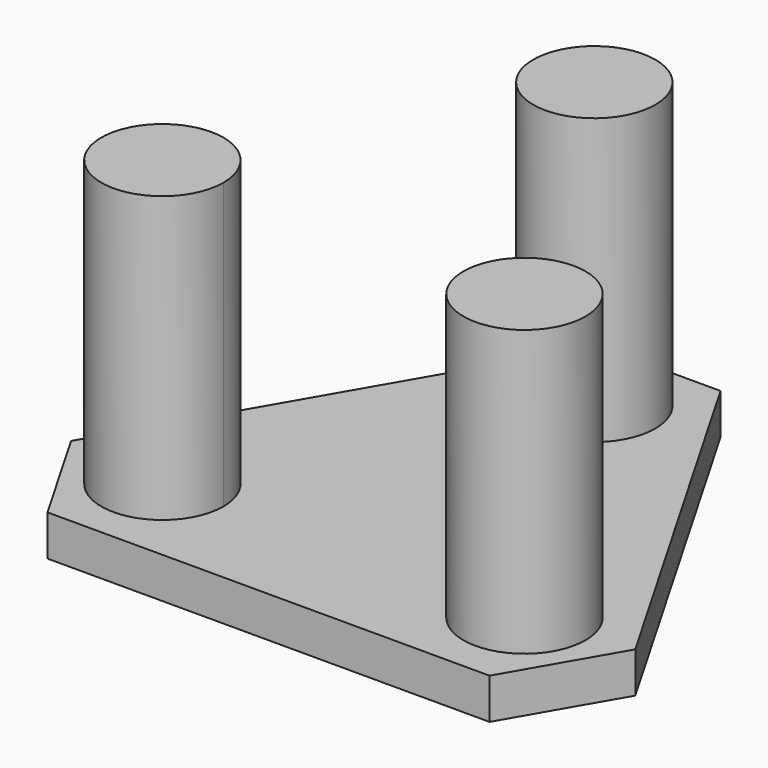
from build123d import *

# Parameters (mm, degrees)
F0_R     = 4.7625
F1_DEPTH = 3.175
F2_DEPTH = 25.4


with BuildPart() as f1:
    # F0 (on Top) → F1 (new body)
    with BuildSketch(Plane.XY):
        with BuildLine():
            ThreePointArc((12.643011, -0.949446), (6.647886, 3.650776), (3.756065, -3.330696))
            ThreePointArc((3.756065, -3.330696), (9.113137, -5.549668), (12.643011, -0.949446))
        make_face()
        Polygon((17.234545, 29.851108), (0, 0), (2.38125, -4.124446), (4.7625, -8.248892), (39.231591, -8.248892), (43.994091, 0), (26.759545, 29.851108), align=None)
        with BuildLine():
            ThreePointArc((12.643011, -0.949446), (9.113137, -5.549668), (3.756065, -3.330696))
            ThreePointArc((3.756065, -3.330696), (6.647886, 3.650776), (12.643011, -0.949446))
        make_face(mode=Mode.SUBTRACT)
        with Locations((36.113579, -0.949446)):
            Circle(F0_R, mode=Mode.SUBTRACT)
        with Locations((21.997045, 23.501108)):
            Circle(F0_R, mode=Mode.SUBTRACT)
        with Locations((21.997045, 23.501108)):
            Circle(F0_R)
        with BuildLine():
            ThreePointArc((12.643011, -0.949446), (6.647886, 3.650776), (3.756065, -3.330696))
            ThreePointArc((3.756065, -3.330696), (9.113137, -5.549668), (12.643011, -0.949446))
        make_face()
        with Locations((36.113579, -0.949446)):
            Circle(F0_R)
    extrude(amount=F1_DEPTH)

    # F0 (on Top) → F2 (join)
    with BuildSketch(Plane.XY):
        with Locations((21.997045, 23.501108)):
            Circle(F0_R)
        with Locations((36.113579, -0.949446)):
            Circle(F0_R)
        with BuildLine():
            ThreePointArc((12.643011, -0.949446), (6.647886, 3.650776), (3.756065, -3.330696))
            ThreePointArc((3.756065, -3.330696), (9.113137, -5.549668), (12.643011, -0.949446))
        make_face()
    extrude(amount=F2_DEPTH)


solid = f1.part
